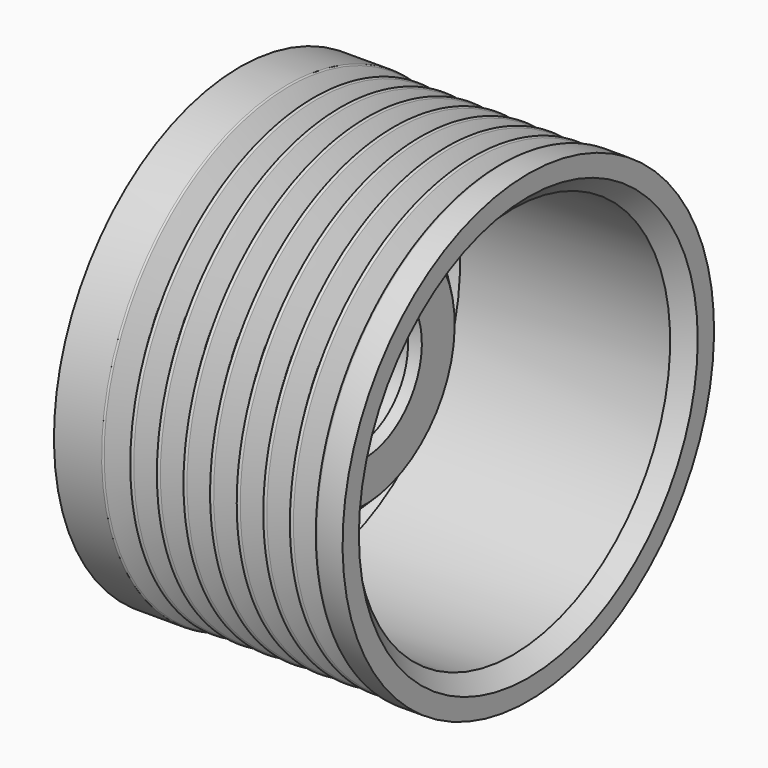
from build123d import *

# Parameters (mm, degrees)
F4_SIZE = 2
F5_SIZE = 1
F6_R    = 0.25


with BuildPart() as f1:
    # F0 (on Front) → F1 (revolve)
    with BuildSketch(Plane.XZ):
        Polygon((-38.134426, 16.175), (-38.134426, 8.43), (-13.834426, 8.43), (-13.834426, 15.79), (-23.834426, 15.79), (-23.834426, 25.665), (7.615574, 25.665), (7.615574, 30.33), (-30.084426, 30.33), (-30.084426, 20.335), align=None)
    revolve(axis=Axis((-25.920492, 0, 0), (1, 0, 0)))

    # F2 (on Front) → F3 (revolve, cut)
    with BuildSketch(Plane.XZ):
        Polygon((-20.229426, 30.33), (-23.704426, 30.33), (-21.966926, 26.93), align=None)
        Polygon((4.095574, 30.33), (0.620574, 30.33), (2.358074, 26.93), align=None)
        Polygon((0.620574, 30.33), (-2.854426, 30.33), (-1.116926, 26.93), align=None)
        Polygon((-2.854426, 30.33), (-6.329426, 30.33), (-4.591926, 26.93), align=None)
        Polygon((-6.329426, 30.33), (-9.804426, 30.33), (-8.066926, 26.93), align=None)
        Polygon((-9.804426, 30.33), (-13.279426, 30.33), (-11.541926, 26.93), align=None)
        Polygon((-13.279426, 30.33), (-16.754426, 30.33), (-15.016926, 26.93), align=None)
        Polygon((-16.754426, 30.33), (-20.229426, 30.33), (-18.491926, 26.93), align=None)
    revolve(axis=Axis((-25.920492, 0, 0), (1, 0, 0)), mode=Mode.SUBTRACT)

    # F4
    f4_edges = [f1.edges().sort_by_distance(p)[0] for p in [
        (-23.834426, 0, -25.665),
        (7.615574, 0, -25.665),
        (-8.109426, 0, 25.665),
    ]]
    chamfer(f4_edges, length=F4_SIZE)

    # F5
    f5_edges = [f1.edges().sort_by_distance(p)[0] for p in [
        (-13.834426, 0, -8.43),
        (-13.834426, 0, -15.79),
    ]]
    chamfer(f5_edges, length=F5_SIZE)

    # F6
    f6_edges = [f1.edges().sort_by_distance(p)[0] for p in [
        (-19.360676, 0, 28.63),
        (-18.491926, 0, -26.93),
        (-20.229426, 0, -30.33),
        (-23.704426, 0, -30.33),
        (-21.966926, 0, -26.93),
        (-22.835676, 0, 28.63),
        (-17.623176, 0, 28.63),
        (-16.754426, 0, -30.33),
        (-15.885676, 0, 28.63),
        (-15.016926, 0, -26.93),
        (-14.148176, 0, 28.63),
        (-13.279426, 0, -30.33),
        (-12.410676, 0, 28.63),
        (-11.541926, 0, -26.93),
        (-10.673176, 0, 28.63),
        (-9.804426, 0, -30.33),
        (-8.935676, 0, 28.63),
        (-8.066926, 0, -26.93),
        (-7.198176, 0, 28.63),
        (-6.329426, 0, -30.33),
        (-5.460676, 0, 28.63),
        (-4.591926, 0, -26.93),
        (-3.723176, 0, 28.63),
        (-2.854426, 0, -30.33),
        (-1.985676, 0, 28.63),
        (-1.116926, 0, -26.93),
        (-0.248176, 0, 28.63),
        (0.620574, 0, -30.33),
        (1.489324, 0, 28.63),
        (2.358074, 0, -26.93),
        (4.095574, 0, -30.33),
        (3.226824, 0, 28.63),
    ]]
    fillet(f6_edges, radius=F6_R)


solid = f1.part
